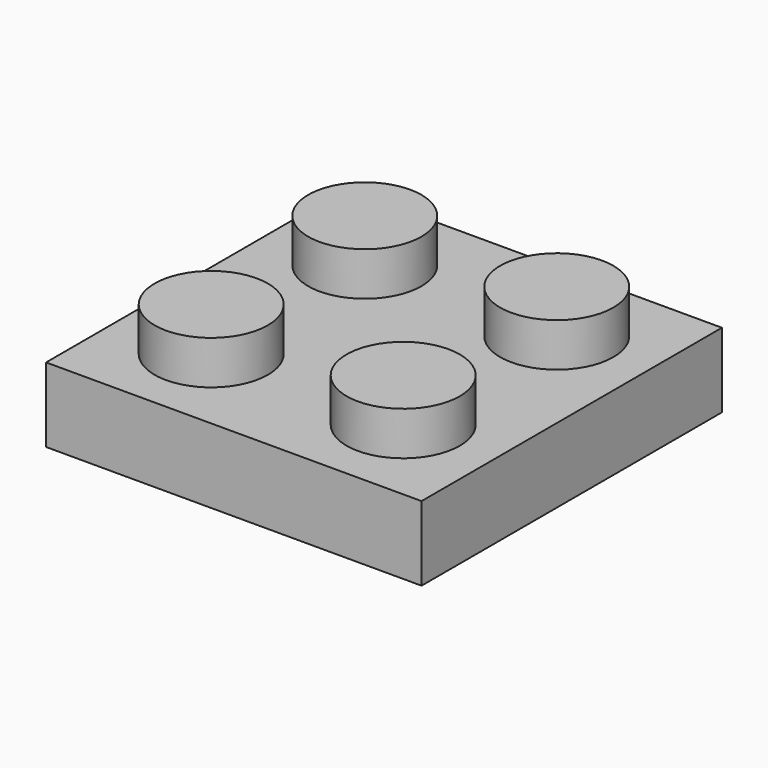
from build123d import *

# Parameters (mm, degrees)
F0_W     = 15.748
F0_H     = 15.748
F0_R     = 2.3749
F1_DEPTH = 3.1242
F2_DEPTH = 1.8288
F3_W     = 12.954
F3_H     = 12.954
F3_R     = 3.175
F4_DEPTH = 2.032
F3_R_2   = 2.4892
F5_DEPTH = 2.032


with BuildPart() as f1:
    # F0 (on Top) → F1 (new body)
    with BuildSketch(Plane.XY):
        Rectangle(F0_W, F0_H)
        with Locations((-4.0259, -4.0259)):
            Circle(F0_R, mode=Mode.SUBTRACT)
        with Locations((4.0259, -4.0259)):
            Circle(F0_R, mode=Mode.SUBTRACT)
        with Locations((-4.0259, 4.0259)):
            Circle(F0_R, mode=Mode.SUBTRACT)
        with Locations((4.0259, 4.0259)):
            Circle(F0_R, mode=Mode.SUBTRACT)
        with Locations((-4.0259, 4.0259)):
            Circle(F0_R)
        with Locations((-4.0259, -4.0259)):
            Circle(F0_R)
        with Locations((4.0259, -4.0259)):
            Circle(F0_R)
        with Locations((4.0259, 4.0259)):
            Circle(F0_R)
    extrude(amount=-F1_DEPTH)

    # F0 (on Top) → F2 (join)
    with BuildSketch(Plane.XY):
        with Locations((-4.0259, 4.0259)):
            Circle(F0_R)
        with Locations((-4.0259, -4.0259)):
            Circle(F0_R)
        with Locations((4.0259, -4.0259)):
            Circle(F0_R)
        with Locations((4.0259, 4.0259)):
            Circle(F0_R)
    extrude(amount=F2_DEPTH)

    # F3 (on face) → F4 (cut)
    with BuildSketch(Plane(origin=(0, 0, -3.1242), x_dir=(1, 0, 0), z_dir=(0, 0, -1))):
        Rectangle(F3_W, F3_H)
        Circle(F3_R, mode=Mode.SUBTRACT)
    extrude(amount=-F4_DEPTH, mode=Mode.SUBTRACT)

    # F3 (on face) → F5 (cut)
    with BuildSketch(Plane(origin=(0, 0, -3.1242), x_dir=(1, 0, 0), z_dir=(0, 0, -1))):
        Circle(F3_R_2)
    extrude(amount=-F5_DEPTH, mode=Mode.SUBTRACT)


solid = f1.part
